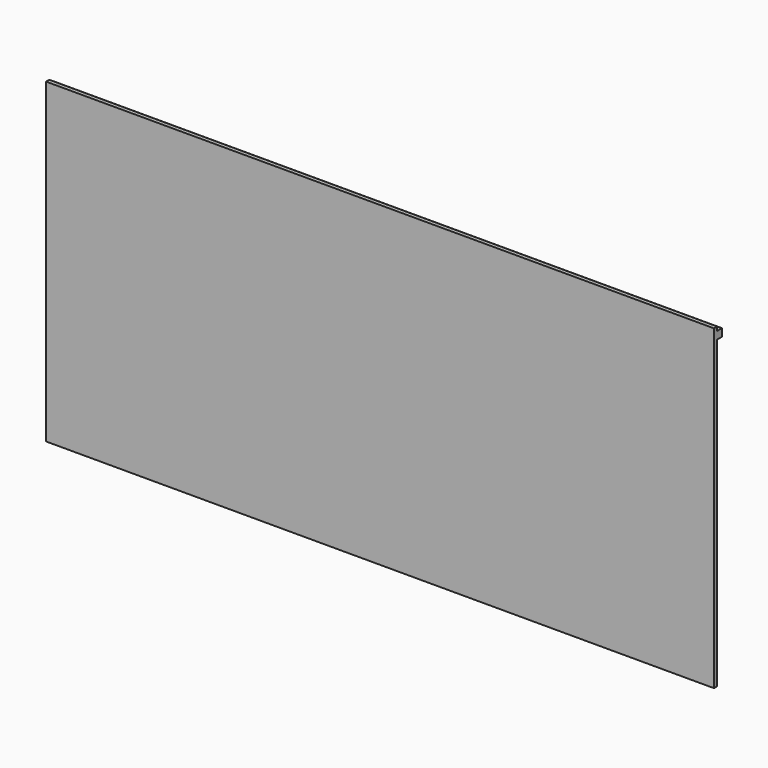
from build123d import *

# Parameters (mm, degrees)
F0_W     = 44.45
F0_H     = 21.082
F1_DEPTH = 0.2645833334
F2_W     = 0.3908552
F2_H     = 0.508
F3_DEPTH = 22.225


with BuildPart() as f1:
    # F0 (on Front) → F1 (new body)
    with BuildSketch(Plane.XZ):
        Rectangle(F0_W, F0_H)
    extrude(amount=F1_DEPTH)

    # F2 (on Right) → F3 (join, symmetric)
    with BuildSketch(Plane.YZ):
        with Locations((0.1954276, 10.033)):
            Rectangle(F2_W, F2_H)
    extrude(amount=F3_DEPTH, both=True)


solid = f1.part
